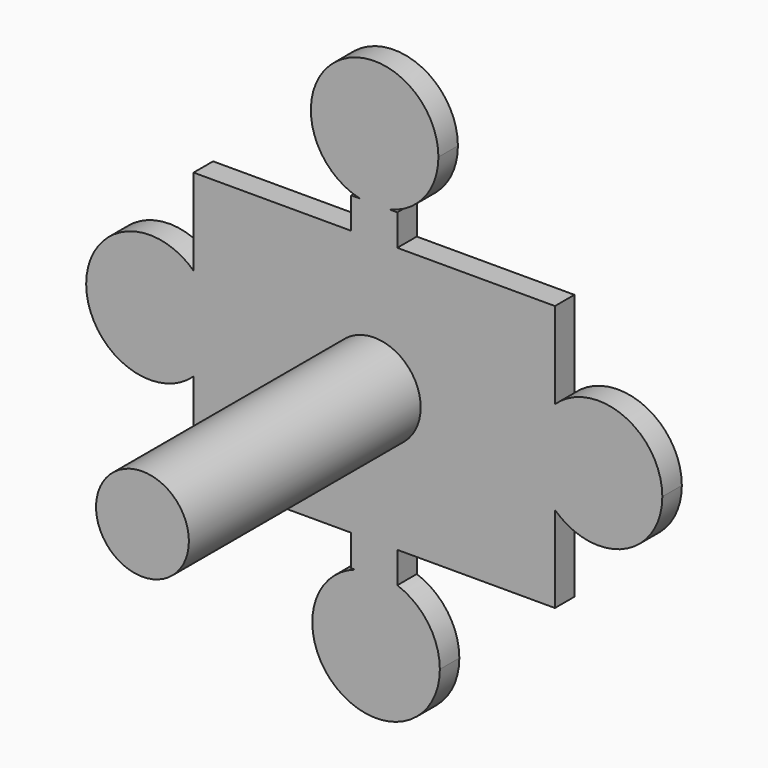
from build123d import *

# Parameters (mm, degrees)
F0_W     = 15.1312917631
F0_H     = 87.2798327157
F1_DEPTH = 8
F2_R     = 15.24
F3_DEPTH = 103.124


with BuildPart() as f1:
    # F0 (on Front) → F1 (new body)
    with BuildSketch(Plane.XZ):
        with BuildLine():
            ThreePointArc((21.0611948149, 74.2600485682), (-12.8527224236, 90.6942677373), (-4.7361595261, 53.8926543366))
            Line((-4.7361595261, 53.8926543366), (4.9808347011, 53.8926543366))
            ThreePointArc((4.9808347011, 53.8926543366), (16.5565567565, 61.2849885571), (21.0611948149, 74.2600485682))
        make_face()
        with BuildLine():
            ThreePointArc((-59.3161847164, 15.2729688488), (-54.4259539951, 8.3219909815), (-52.7011595368, 0))
            ThreePointArc((-52.7011595368, 0), (-54.4259539951, -8.3219909815), (-59.3161847164, -15.2729688488))
            Line((-59.3161847164, -15.2729688488), (-59.3161847164, -43.6399163578))
            Line((-59.3161847164, -43.6399163578), (-7.5656458816, -43.6399163578))
            Line((-7.5656458816, -43.6399163578), (-7.5656458816, 43.6399163578))
            Line((-7.5656458816, 43.6399163578), (-59.3161847164, 43.6399163578))
            Line((-59.3161847164, 43.6399163578), (-59.3161847164, 15.2729688488))
        make_face()
        Rectangle(F0_W, F0_H)
        with BuildLine():
            Line((59.3161847164, 43.6399163578), (7.5656458816, 43.6399163578))
            Line((7.5656458816, 43.6399163578), (7.5656458816, -43.6399163578))
            Line((7.5656458816, -43.6399163578), (59.3161847164, -43.6399163578))
            Line((59.3161847164, -43.6399163578), (59.3161847164, -15.2729688488))
            ThreePointArc((59.3161847164, -15.2729688488), (52.7011595368, 0), (59.3161847164, 15.2729688488))
            Line((59.3161847164, 15.2729688488), (59.3161847164, 43.6399163578))
        make_face()
        with BuildLine():
            Line((-7.5656458816, 53.8926543366), (-7.5656458816, 43.6399163578))
            Line((-7.5656458816, 43.6399163578), (7.5656458816, 43.6399163578))
            Line((7.5656458816, 43.6399163578), (7.5656458816, 53.8926543366))
            Line((7.5656458816, 53.8926543366), (4.9808347011, 53.8926543366))
            ThreePointArc((4.9808347011, 53.8926543366), (0.1223375875, 53.3211913409), (-4.7361595261, 53.8926543366))
            Line((-4.7361595261, 53.8926543366), (-7.5656458816, 53.8926543366))
        make_face()
        with BuildLine():
            Line((59.3161847164, -15.2729688488), (59.3161847164, 15.2729688488))
            ThreePointArc((59.3161847164, 15.2729688488), (52.7011595368, 0), (59.3161847164, -15.2729688488))
        make_face()
        with BuildLine():
            Line((-59.3161847164, -15.2729688488), (-59.3161847164, 15.2729688488))
            ThreePointArc((-59.3161847164, 15.2729688488), (-94.5788739916, 0), (-59.3161847164, -15.2729688488))
        make_face()
        with BuildLine():
            ThreePointArc((-59.3161847164, -15.2729688488), (-54.4259539951, -8.3219909815), (-52.7011595368, 0))
            ThreePointArc((-52.7011595368, 0), (-54.4259539951, 8.3219909815), (-59.3161847164, 15.2729688488))
            Line((-59.3161847164, 15.2729688488), (-59.3161847164, -15.2729688488))
        make_face()
        with BuildLine():
            ThreePointArc((7.5656458816, -53.8926543366), (0.5962310047, -52.6987457864), (-6.3731838721, -53.8926543366))
            Line((-6.3731838721, -53.8926543366), (7.5656458816, -53.8926543366))
        make_face()
        with BuildLine():
            Line((7.5656458816, -43.6399163578), (-7.5656458816, -43.6399163578))
            Line((-7.5656458816, -43.6399163578), (-7.5656458816, -53.8926543366))
            Line((-7.5656458816, -53.8926543366), (-6.3731838721, -53.8926543366))
            ThreePointArc((-6.3731838721, -53.8926543366), (0.5962310047, -52.6987457864), (7.5656458816, -53.8926543366))
            Line((7.5656458816, -53.8926543366), (7.5656458816, -43.6399163578))
        make_face()
        with BuildLine():
            ThreePointArc((94.5788739916, 0), (81.9620077456, 19.214062769), (59.3161847164, 15.2729688488))
            Line((59.3161847164, 15.2729688488), (59.3161847164, -15.2729688488))
            ThreePointArc((59.3161847164, -15.2729688488), (81.9620077456, -19.214062769), (94.5788739916, 0))
        make_face()
        with BuildLine():
            Line((7.5656458816, -53.8926543366), (-6.3731838721, -53.8926543366))
            ThreePointArc((-6.3731838721, -53.8926543366), (-11.4972415926, -90.7309836779), (21.5350882321, -73.6376030138))
            ThreePointArc((21.5350882321, -73.6376030138), (17.6896116688, -61.5441304165), (7.5656458816, -53.8926543366))
        make_face()
        with BuildLine():
            Line((4.9808347011, 53.8926543366), (-4.7361595261, 53.8926543366))
            ThreePointArc((-4.7361595261, 53.8926543366), (0.1223375875, 53.3211913409), (4.9808347011, 53.8926543366))
        make_face()
    extrude(amount=F1_DEPTH)

    # F2 (on Front) → F3 (join)
    with BuildSketch(Plane.XZ):
        Circle(F2_R)
    extrude(amount=F3_DEPTH)


solid = f1.part
